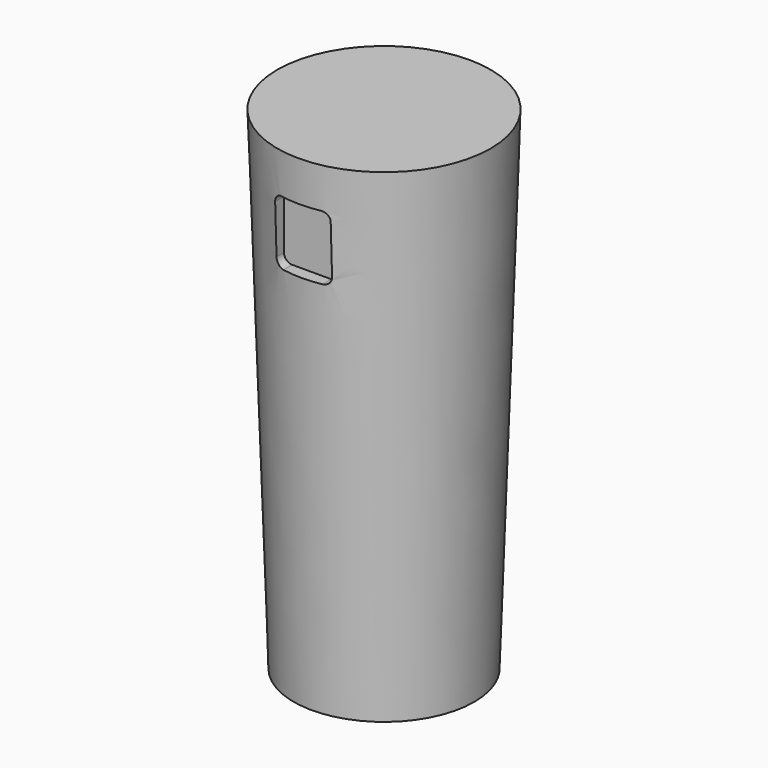
from build123d import *

# Parameters (mm, degrees)
F0_R     = 13
F2_R     = 11
F6_DEPTH = 14


with BuildPart() as f3:
    # F0 (on Top) → F3 section 0
    with BuildSketch(Plane.XY):
        Circle(F0_R)
    # F2 (on offset) → F3 section 1
    with BuildSketch(Plane.XY.offset(-60)):
        Circle(F2_R)
    loft()

    # F5 (on offset) → F6 (cut)
    with BuildSketch(Plane.XZ.offset(25)):
        with BuildLine():
            Line((0, -5), (-2.383307, -5))
            ThreePointArc((-2.383307, -5), (-3.090414, -5.292893), (-3.383307, -6))
            Line((-3.383307, -6), (-3.383307, -12))
            ThreePointArc((-3.383307, -12), (-3.090414, -12.707107), (-2.383307, -13))
            Line((-2.383307, -13), (2.383307, -13))
            ThreePointArc((2.383307, -13), (3.090414, -12.707107), (3.383307, -12))
            Line((3.383307, -12), (3.383307, -6))
            ThreePointArc((3.383307, -6), (3.090414, -5.292893), (2.383307, -5))
            Line((2.383307, -5), (0, -5))
        make_face()
    extrude(amount=-F6_DEPTH, mode=Mode.SUBTRACT)


solid = f3.part
